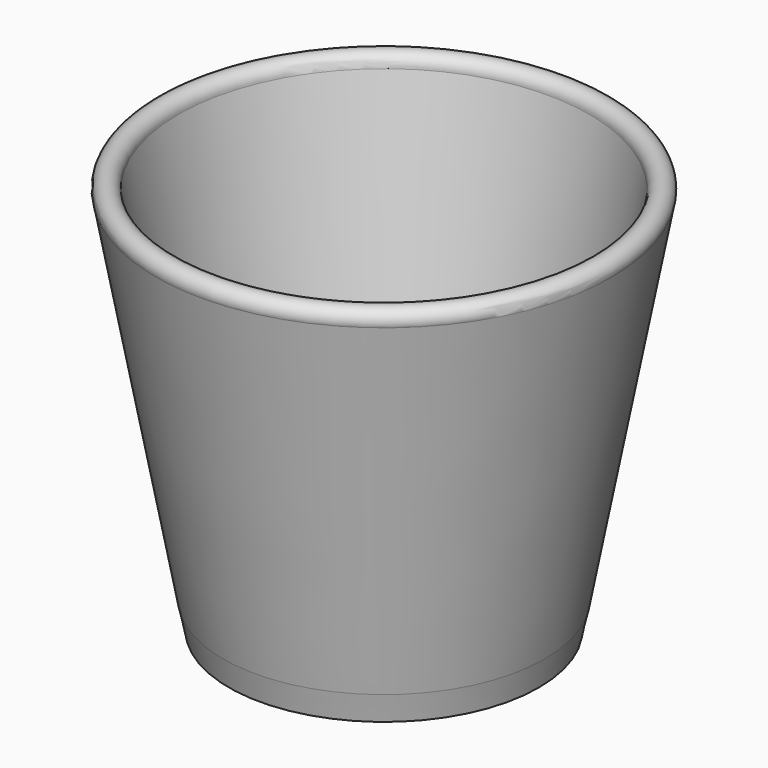
from build123d import *


with BuildPart() as f1:
    # F0 (on Front) → F1 (revolve)
    with BuildSketch(Plane.XZ):
        with BuildLine():
            Line((29.071695, 0), (0, 0))
            Line((0, 0), (0, -5))
            Line((0, -5), (29.071695, -5))
            Line((29.071695, -5), (35.135534, -5))
            Line((35.135534, -5), (36.464133, 1.14043))
            Line((36.464133, 1.14043), (51.593534, 82.20695))
            ThreePointArc((51.593534, 82.20695), (49.493975, 85.661323), (46.621139, 82.817444))
            Line((46.621139, 82.817444), (31.548998, 2.057739))
            ThreePointArc((31.548998, 2.057739), (30.681922, 0.581532), (29.071695, 0))
        make_face()
    revolve(axis=Axis((0, 0, -2.5), (0, 0, 1)))


solid = f1.part
